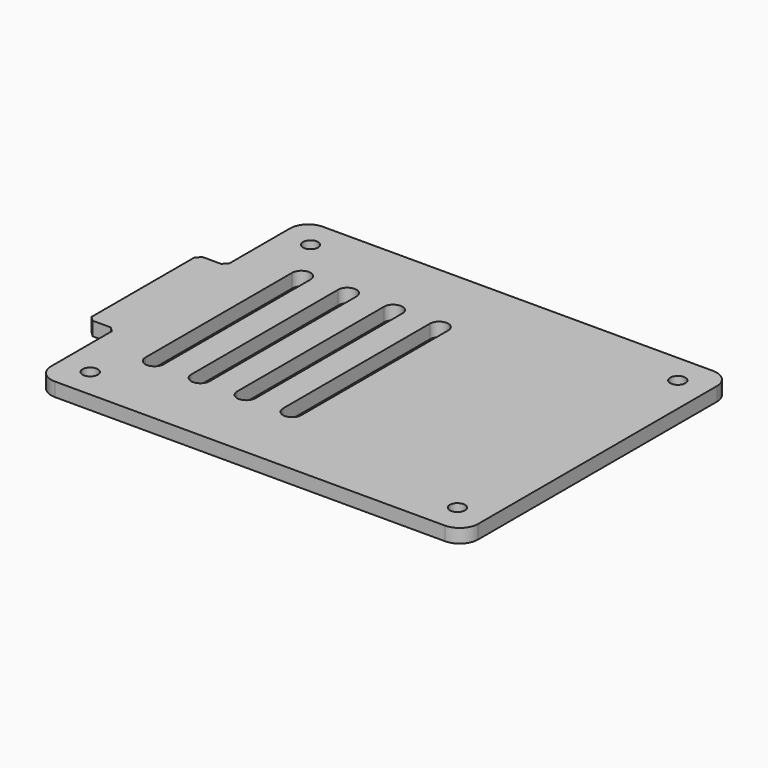
from build123d import *

# Parameters (mm, degrees)
SKETCH064_W            = 93
SKETCH064_H            = 73
PAD021_DEPTH           = 3
FILLET016_R            = 4
SKETCH065_R            = 1.65
POCKET045_DEPTH        = 3.001
SKETCH069_W            = 6
SKETCH069_H            = 30
PAD023_DEPTH           = 3
CHAMFER016_SIZE        = 1
POCKET050_DEPTH        = 3.001
LINEARPATTERN001_COUNT = 4
LINEARPATTERN001_PITCH = 10


with BuildPart() as part:
    # Sketch064 (on Face1 of CopyMirrored003) → Pad021 (new body)
    with BuildSketch(Plane(origin=(0, 0, 0), x_dir=(1, 0, 0), z_dir=(0, 0, -1))):
        Rectangle(SKETCH064_W, SKETCH064_H)
    extrude(amount=PAD021_DEPTH)

    # Fillet016
    fillet016_edges = [part.edges().sort_by_distance(p)[0] for p in [
        (-46.5, 36.5, -1.5),
        (-46.5, -36.5, -1.5),
        (46.5, -36.5, -1.5),
        (46.5, 36.5, -1.5),
    ]]
    fillet(fillet016_edges, radius=FILLET016_R)

    # Sketch065 (on Face5 of Fillet016) → Pocket045 (cut, through all)
    with BuildSketch(Plane(origin=(0, 0, -3), x_dir=(1, 0, 0), z_dir=(0, 0, -1))):
        with Locations((-40, 30)):
            Circle(SKETCH065_R)
        with Locations((-40, -30)):
            Circle(SKETCH065_R)
        with Locations((40, 30)):
            Circle(SKETCH065_R)
        with Locations((40, -30)):
            Circle(SKETCH065_R)
    extrude(amount=-POCKET045_DEPTH, mode=Mode.SUBTRACT)

    # Sketch069 (on Face5 of Pocket045) → Pad023 (join)
    with BuildSketch(Plane(origin=(0, 0, -3), x_dir=(1, 0, 0), z_dir=(0, 0, -1))):
        with Locations((-49.5, 0)):
            Rectangle(SKETCH069_W, SKETCH069_H)
    extrude(amount=-PAD023_DEPTH)

    # Chamfer016
    chamfer016_edges = [part.edges().sort_by_distance(p)[0] for p in [
        (-52.5, 15, -1.5),
        (-52.5, -15, -1.5),
        (-46.5, -15, -1.5),
        (-46.5, 15, -1.5),
    ]]
    chamfer(chamfer016_edges, length=CHAMFER016_SIZE)

    # Sketch073 (on Face5 of Chamfer016) → Pocket050 (cut, through all)
    with BuildSketch(Plane(origin=(0, 0, -3), x_dir=(1, 0, 0), z_dir=(0, 0, -1))):
        with BuildLine():
            ThreePointArc((-32, 20), (-34, 22), (-36, 20))
            Line((-36, 20), (-36, -20))
            ThreePointArc((-36, -20), (-34, -22), (-32, -20))
            Line((-32, 20), (-32, -20))
        make_face()
    pocket050 = extrude(amount=-POCKET050_DEPTH, mode=Mode.SUBTRACT)

    # LinearPattern001: Pocket050 ×4
    with Locations(*[(i * LINEARPATTERN001_PITCH, 0, 0) for i in range(1, LINEARPATTERN001_COUNT)]):
        add(pocket050, mode=Mode.SUBTRACT)


solid = part.part
